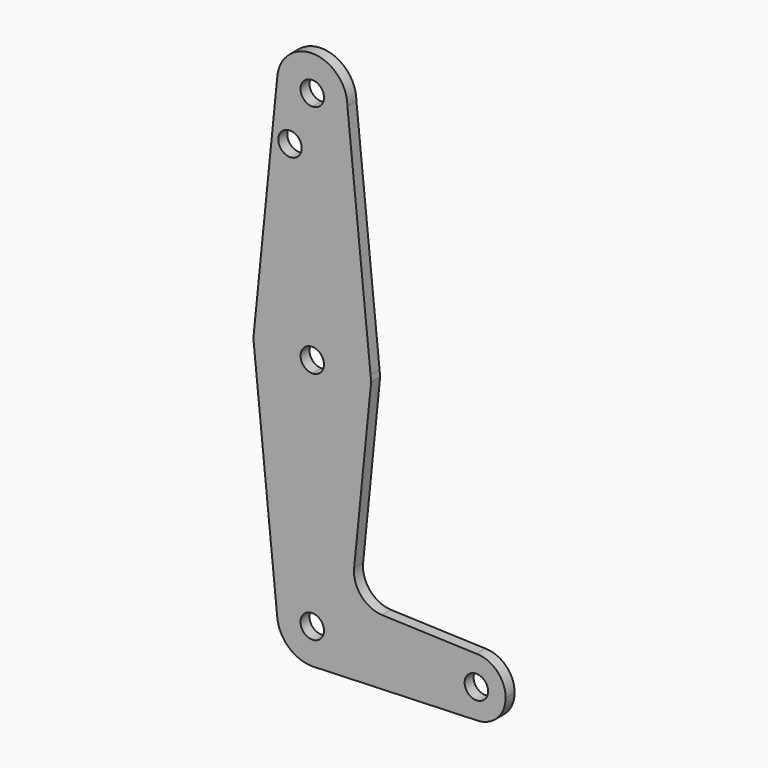
from build123d import *

# Parameters (mm, degrees)
F0_R     = 3.175
F1_DEPTH = 3.048


with BuildPart() as f1:
    # F0 (on Front) → F1 (new body)
    with BuildSketch(Plane.XZ):
        with BuildLine():
            ThreePointArc((-41.275, 63.636204), (-46.695064, 65.881268), (-44.45, 60.461204))
            ThreePointArc((-44.45, 60.461204), (-42.204936, 61.39114), (-41.275, 63.636204))
        make_face()
        with BuildLine():
            ThreePointArc((-44.45, 54.111204), (-37.714808, 56.901012), (-34.925, 63.636204))
            ThreePointArc((-34.925, 63.636204), (-44.227693, 73.158609), (-53.964623, 64.080696))
            ThreePointArc((-53.964623, 64.080696), (-51.340552, 57.060041), (-44.45, 54.111204))
        make_face()
        with BuildLine():
            ThreePointArc((-41.275, 63.636204), (-42.204936, 61.39114), (-44.45, 60.461204))
            ThreePointArc((-44.45, 60.461204), (-46.695064, 65.881268), (-41.275, 63.636204))
        make_face(mode=Mode.SUBTRACT)
        with BuildLine():
            Line((-28.655446, 1.596144), (-34.925, 63.636204))
            ThreePointArc((-34.925, 63.636204), (-37.714808, 56.901012), (-44.45, 54.111204))
            Line((-44.45, 54.111204), (-44.45, 15.875))
            ThreePointArc((-44.45, 15.875), (-33.803948, 11.776129), (-28.655446, 1.596144))
        make_face()
        with BuildLine():
            ThreePointArc((-44.45, 54.111204), (-51.340552, 57.060041), (-53.964623, 64.080696))
            Line((-53.964623, 64.080696), (-60.245426, 1.5875))
            ThreePointArc((-60.245426, 1.5875), (-55.099274, 11.773215), (-44.45, 15.875))
            Line((-44.45, 15.875), (-44.45, 54.111204))
        make_face()
        with Locations((-50.483782, 49.620312)):
            Circle(F0_R, mode=Mode.SUBTRACT)
        with BuildLine():
            Line((-28.494145, 0), (-28.655446, 1.596144))
            ThreePointArc((-28.655446, 1.596144), (-28.595124, 0.799085), (-28.575, 0))
            ThreePointArc((-28.575, 0), (-43.655254, -15.855094), (-60.245426, -1.5875))
            Line((-60.245426, -1.5875), (-53.927255, -64.4525))
            ThreePointArc((-53.927255, -64.4525), (-44.926848, -53.986944), (-34.925, -63.5))
            Line((-34.925, -63.5), (-7.9375, -63.5))
            ThreePointArc((-7.9375, -63.5), (-5.61266, -57.88734), (0, -55.5625))
            Line((0, -55.5625), (-25.482532, -54.65241))
            ThreePointArc((-25.482532, -54.65241), (-31.189089, -51.934305), (-33.109116, -45.912148))
            Line((-33.109116, -45.912148), (-28.494145, 0))
        make_face()
        with BuildLine():
            ThreePointArc((-28.575, 0), (-28.595124, 0.799085), (-28.655446, 1.596144))
            ThreePointArc((-28.655446, 1.596144), (-33.803948, 11.776129), (-44.45, 15.875))
            ThreePointArc((-44.45, 15.875), (-55.099274, 11.773215), (-60.245426, 1.5875))
            ThreePointArc((-60.245426, 1.5875), (-60.325, 0), (-60.245426, -1.5875))
            ThreePointArc((-60.245426, -1.5875), (-43.655254, -15.855094), (-28.575, 0))
        make_face()
        with BuildLine():
            ThreePointArc((-44.45, -3.175), (-47.625, 0), (-44.45, 3.175))
            ThreePointArc((-44.45, 3.175), (-42.204936, 2.245064), (-41.275, 0))
            ThreePointArc((-41.275, 0), (-42.204936, -2.245064), (-44.45, -3.175))
        make_face(mode=Mode.SUBTRACT)
        with BuildLine():
            ThreePointArc((-60.245426, -1.5875), (-60.325, 0), (-60.245426, 1.5875))
            Line((-60.245426, 1.5875), (-60.404975, 0))
            Line((-60.404975, 0), (-60.245426, -1.5875))
        make_face()
        with BuildLine():
            ThreePointArc((-34.925, -63.5), (-44.926848, -53.986944), (-53.927255, -64.4525))
            ThreePointArc((-53.927255, -64.4525), (-50.839564, -70.563929), (-44.45, -73.025))
            Line((-44.45, -73.025), (-43.77051, -73.000732))
            ThreePointArc((-43.77051, -73.000732), (-37.47871, -69.990511), (-34.925, -63.5))
        make_face()
        with BuildLine():
            ThreePointArc((-44.45, -60.325), (-42.204936, -61.254936), (-41.275, -63.5))
            ThreePointArc((-41.275, -63.5), (-46.695064, -65.745064), (-44.45, -60.325))
        make_face(mode=Mode.SUBTRACT)
        with BuildLine():
            Line((-7.9375, -63.5), (-34.925, -63.5))
            ThreePointArc((-34.925, -63.5), (-37.47871, -69.990511), (-43.77051, -73.000732))
            Line((-43.77051, -73.000732), (0, -71.4375))
            ThreePointArc((0, -71.4375), (-5.61266, -69.11266), (-7.9375, -63.5))
        make_face()
        with BuildLine():
            Line((-43.77051, -73.000732), (-44.45, -73.025))
            ThreePointArc((-44.45, -73.025), (-44.110038, -73.018931), (-43.77051, -73.000732))
        make_face()
        with BuildLine():
            ThreePointArc((3.175, -63.5), (0, -60.325), (-3.175, -63.5))
            ThreePointArc((-3.175, -63.5), (0, -66.675), (3.175, -63.5))
        make_face()
        with BuildLine():
            ThreePointArc((7.9375, -63.5), (5.61266, -57.88734), (0, -55.5625))
            ThreePointArc((0, -55.5625), (-5.61266, -57.88734), (-7.9375, -63.5))
            ThreePointArc((-7.9375, -63.5), (-5.61266, -69.11266), (0, -71.4375))
            ThreePointArc((0, -71.4375), (5.61266, -69.11266), (7.9375, -63.5))
        make_face()
        with BuildLine():
            ThreePointArc((3.175, -63.5), (0, -66.675), (-3.175, -63.5))
            ThreePointArc((-3.175, -63.5), (0, -60.325), (3.175, -63.5))
        make_face(mode=Mode.SUBTRACT)
    extrude(amount=F1_DEPTH)


solid = f1.part
